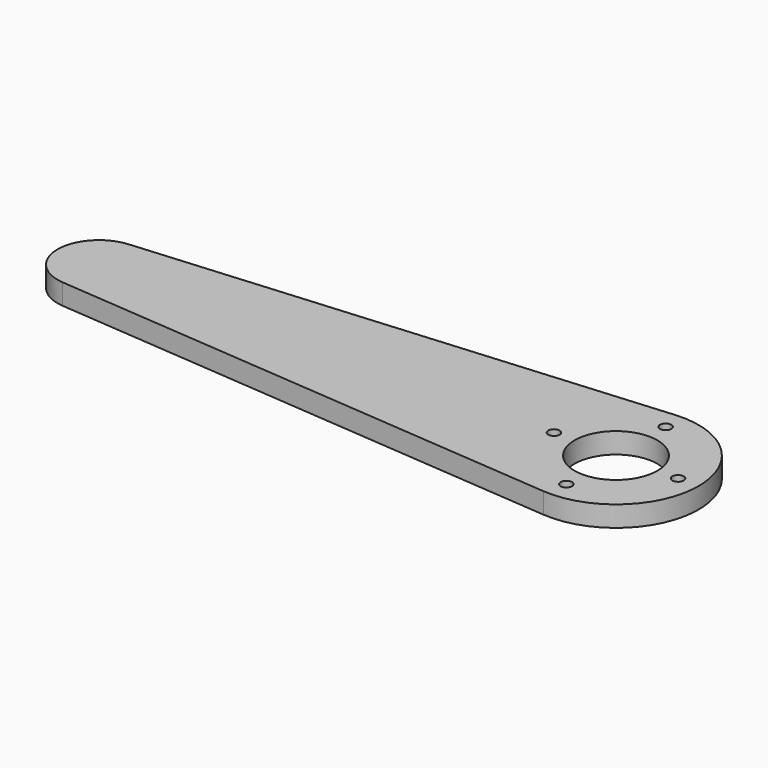
from build123d import *

# Parameters (mm, degrees)
SKETCH_R           = 20
PAD_DEPTH          = 10
SKETCH001_R        = 2.75
HOLE_DEPTH         = 25
POLARPATTERN_COUNT = 4


with BuildPart() as part:
    # Sketch → Pad (new body)
    with BuildSketch(Plane.XY):
        with BuildLine():
            ThreePointArc((-251.6, 19.935897), (-270, 0), (-251.6, -19.935897))
            Line((-251.6, -19.935897), (-3.2, -39.871795))
            ThreePointArc((-3.2, -39.871795), (40, 0), (-3.2, 39.871795))
            Line((-251.6, 19.935897), (-3.2, 39.871795))
        make_face()
        Circle(SKETCH_R, mode=Mode.SUBTRACT)
    extrude(amount=PAD_DEPTH)

    # Sketch001 (on Face7 of Pad) → Hole (cut)
    with BuildSketch(Plane.XY.offset(10)):
        with Locations((30, 0)):
            Circle(SKETCH001_R)
    hole = extrude(amount=-HOLE_DEPTH, mode=Mode.SUBTRACT)

    # PolarPattern: Hole ×4 about axis
    polarpattern_axis = Axis((0, 0, 10), (0, 0, 1))
    for i in range(1, POLARPATTERN_COUNT):
        add(hole.rotate(polarpattern_axis, i * 360 / POLARPATTERN_COUNT), mode=Mode.SUBTRACT)


solid = part.part
